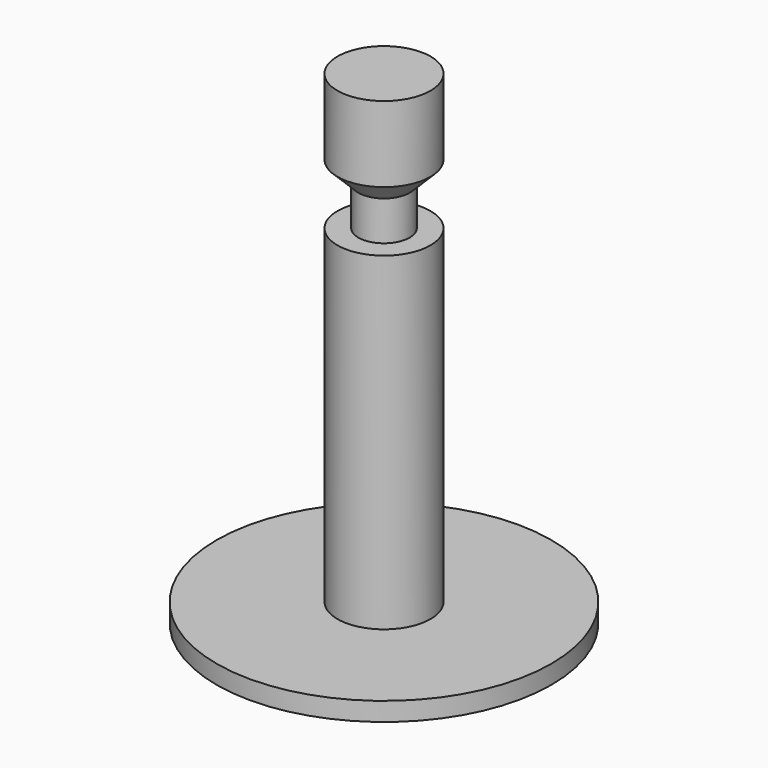
from build123d import *

# Parameters (mm, degrees)
F0_R     = 9
F1_DEPTH = 1
F2_R     = 2.5
F3_DEPTH = 25


with BuildPart() as f1:
    # F0 (on Top) → F1 (new body)
    with BuildSketch(Plane.XY):
        Circle(F0_R)
    extrude(amount=F1_DEPTH)

    # F2 (on face) → F3 (join)
    with BuildSketch(Plane.XY.offset(1)):
        Circle(F2_R)
    extrude(amount=F3_DEPTH)

    # F5 (on Right) → F6 (revolve, cut)
    with BuildSketch(Plane.YZ):
        Polygon((-2.54262, 21.969934), (-2.54262, 18.685159), (-1.379166, 18.685159), (-1.379166, 20.806479), align=None)
    revolve(axis=Axis((0, 0, 9.517463), (0, 0, 1)), mode=Mode.SUBTRACT)


solid = f1.part
